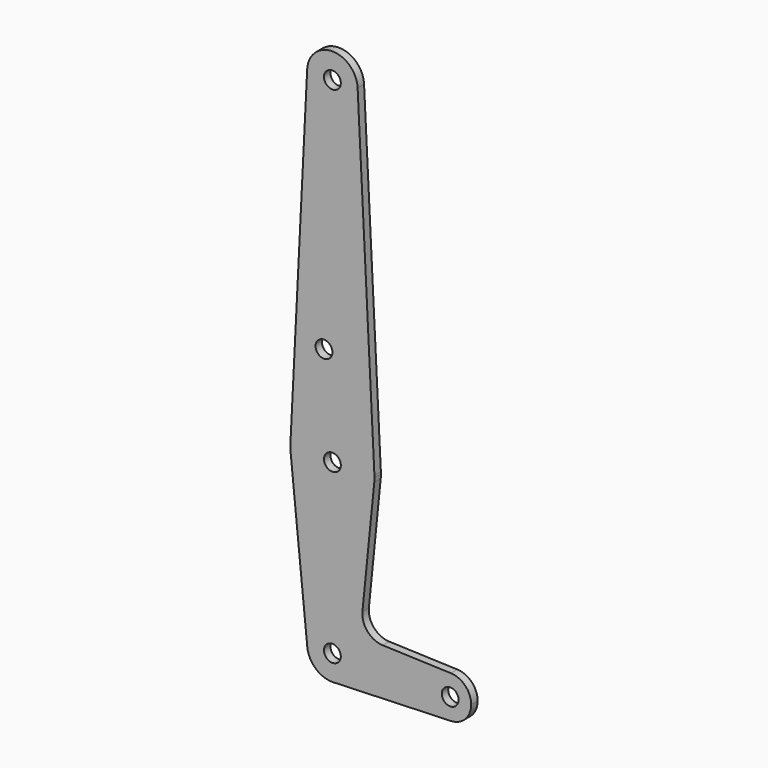
from build123d import *

# Parameters (mm, degrees)
F0_R     = 3.175
F1_DEPTH = 3.048


with BuildPart() as f1:
    # F0 (on Front) → F1 (new body)
    with BuildSketch(Plane.XZ):
        with BuildLine():
            Line((-9.513086, 190.97625), (-15.855144, 64.29375))
            ThreePointArc((-15.855144, 64.29375), (0, 79.375), (15.855144, 64.29375))
            Line((15.855144, 64.29375), (9.513086, 190.97625))
            ThreePointArc((9.513086, 190.97625), (9.522021, 190.738199), (9.525, 190.5))
            ThreePointArc((9.525, 190.5), (-0.238199, 180.977979), (-9.513086, 190.97625))
        make_face()
        with Locations((-3.175, 100.0252)):
            Circle(F0_R, mode=Mode.SUBTRACT)
        with BuildLine():
            ThreePointArc((-9.477255, -0.9525), (-0.476848, 9.513056), (9.525, 0))
            ThreePointArc((9.525, 0), (6.970557, -6.491299), (0.677344, -9.500886))
            Line((0.677344, -9.500886), (44.732405, -7.932475))
            ThreePointArc((44.732405, -7.932475), (36.5125, 0.000539), (44.733482, 7.932436))
            Line((44.733482, 7.932436), (18.9676, 8.853234))
            ThreePointArc((18.9676, 8.853234), (13.2612, 11.571359), (11.341187, 17.593382))
            Line((11.341187, 17.593382), (15.795426, 61.9125))
            ThreePointArc((15.795426, 61.9125), (0, 47.625), (-15.795426, 61.9125))
            Line((-15.795426, 61.9125), (-9.477255, -0.9525))
        make_face()
        with BuildLine():
            ThreePointArc((-15.855144, 64.29375), (-15.87001, 63.102003), (-15.795426, 61.9125))
            ThreePointArc((-15.795426, 61.9125), (0, 47.625), (15.795426, 61.9125))
            ThreePointArc((15.795426, 61.9125), (15.855094, 62.705253), (15.875, 63.5))
            ThreePointArc((15.875, 63.5), (15.870035, 63.896999), (15.855144, 64.29375))
            ThreePointArc((15.855144, 64.29375), (0, 79.375), (-15.855144, 64.29375))
        make_face()
        with Locations((0, 63.5)):
            Circle(F0_R, mode=Mode.SUBTRACT)
        with BuildLine():
            ThreePointArc((0.677344, -9.500886), (6.970557, -6.491299), (9.525, 0))
            ThreePointArc((9.525, 0), (-0.476848, 9.513056), (-9.477255, -0.9525))
            ThreePointArc((-9.477255, -0.9525), (-6.389564, -7.063929), (0, -9.525))
            Line((0, -9.525), (0.677344, -9.500886))
        make_face()
        Circle(F0_R, mode=Mode.SUBTRACT)
        with BuildLine():
            ThreePointArc((44.733482, 7.932436), (36.5125, 0.000539), (44.732405, -7.932475))
            ThreePointArc((44.732405, -7.932475), (50.161633, -5.51191), (52.3875, 0))
            ThreePointArc((52.3875, 0), (50.162007, 5.511523), (44.733482, 7.932436))
        make_face()
        with Locations((44.45, 0)):
            Circle(F0_R, mode=Mode.SUBTRACT)
        with BuildLine():
            ThreePointArc((9.513086, 190.97625), (0, 200.025), (-9.513086, 190.97625))
            ThreePointArc((-9.513086, 190.97625), (-0.238199, 180.977979), (9.525, 190.5))
            ThreePointArc((9.525, 190.5), (9.522021, 190.738199), (9.513086, 190.97625))
        make_face()
        with Locations((0, 190.5)):
            Circle(F0_R, mode=Mode.SUBTRACT)
    extrude(amount=F1_DEPTH)


solid = f1.part
